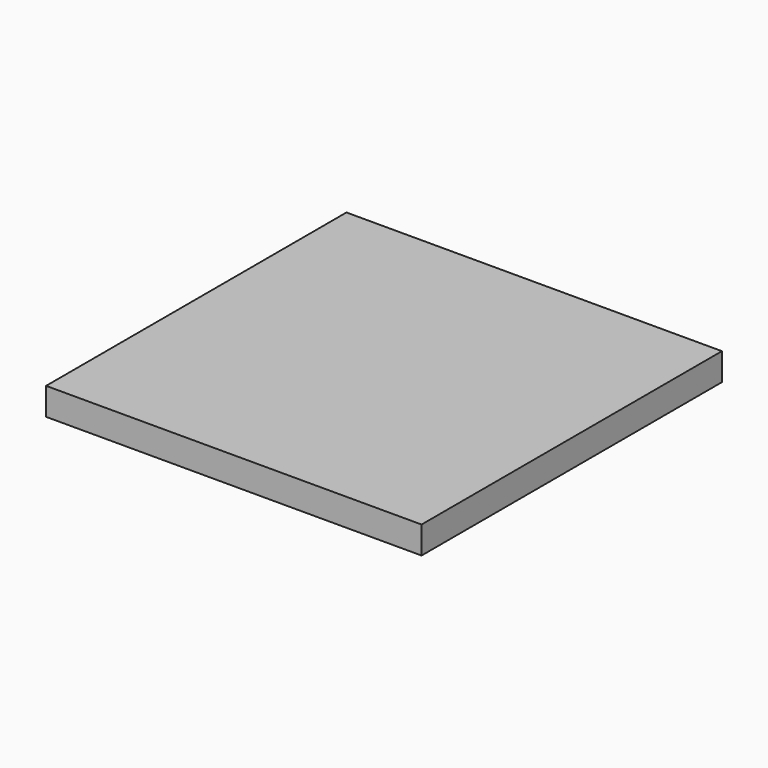
from build123d import *

# Parameters (mm, degrees)
F0_W     = 34.925
F0_H     = 34.925
F1_DEPTH = 2.54
F2_R     = 6.35
F3_DEPTH = 2.54


with BuildPart() as f1:
    # F0 (on Top) → F1 (new body)
    with BuildSketch(Plane.XY):
        with Locations((-17.4625, 17.4625)):
            Rectangle(F0_W, F0_H)
        with Locations((-17.4625, 17.4625)):
            Rectangle(F0_W, F0_H)
    extrude(amount=F1_DEPTH)

    # F2 (on face) → F3 (join)
    with BuildSketch(Plane(origin=(0, 0, 0), x_dir=(1, 0, 0), z_dir=(0, 0, -1))):
        with Locations((-17.4625, -17.4625)):
            Circle(F2_R)
        with Locations((-17.4625, -17.4625)):
            Circle(F2_R)
    extrude(amount=F3_DEPTH)


solid = f1.part
